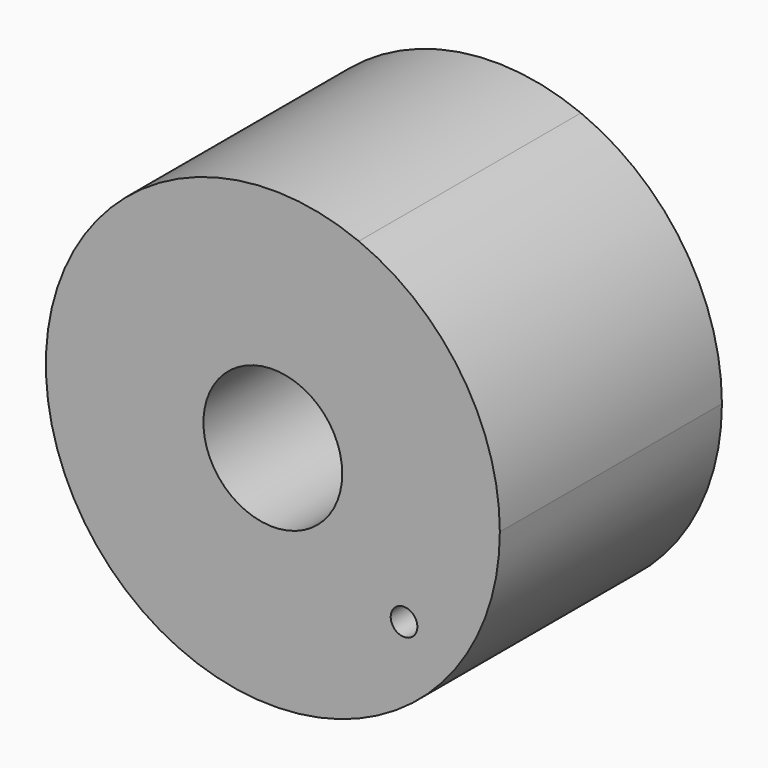
from build123d import *

# Parameters (mm, degrees)
F0_R     = 0.6093226382
F0_R_2   = 3.175
F1_DEPTH = 12.7


with BuildPart() as f1:
    # F0 (on Front) → F1 (new body)
    with BuildSketch(Plane.XZ):
        with BuildLine():
            ThreePointArc((31.5328345598, 20.6802571494), (29.770402539, 26.4681944004), (25.0812980369, 30.2916330645))
            Line((25.0812980369, 30.2916330645), (25.0812980369, 11.0688812343))
            ThreePointArc((25.0812980369, 11.0688812343), (29.770402539, 14.8923198983), (31.5328345598, 20.6802571494))
        make_face()
        with Locations((27.1492786705, 15.6318955123)):
            Circle(F0_R, mode=Mode.SUBTRACT)
        with BuildLine():
            Line((25.0812980369, 11.0688812343), (25.0812980369, 30.2916330645))
            ThreePointArc((25.0812980369, 30.2916330645), (10.7624537347, 20.6802571494), (25.0812980369, 11.0688812343))
        make_face()
        with Locations((21.1476441473, 20.6802571494)):
            Circle(F0_R_2, mode=Mode.SUBTRACT)
    extrude(amount=F1_DEPTH)


solid = f1.part
